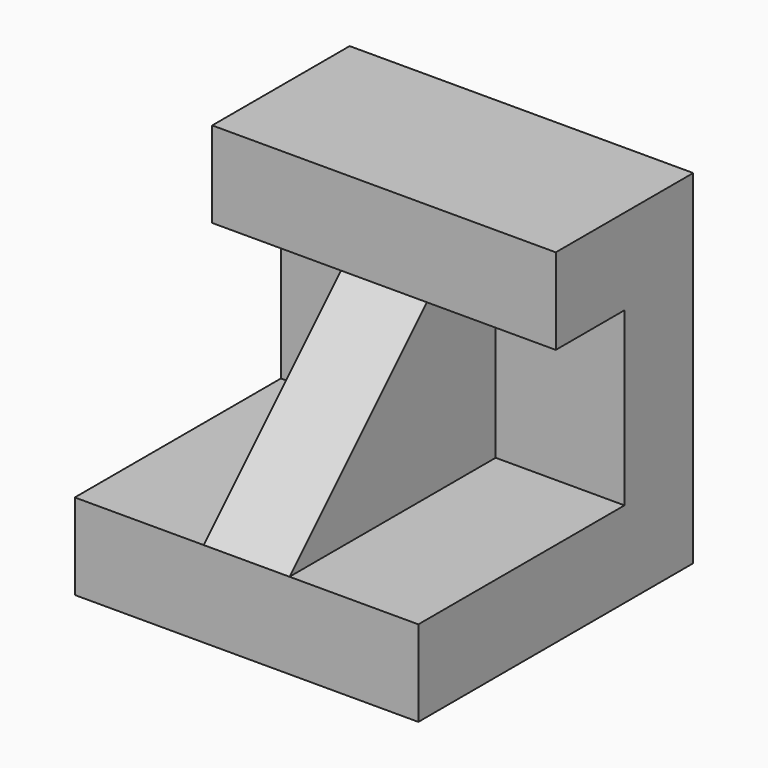
from build123d import *

# Parameters (mm, degrees)
F1_DEPTH = 101.6
F3_DEPTH = 25.4


with BuildPart() as f1:
    # F0 (on Right) → F1 (new body)
    with BuildSketch(Plane.YZ):
        Polygon((25.4, -25.4), (0, -25.4), (-50.8, -25.4), (-50.8, -50.8), (50.8, -50.8), (50.8, 50.8), (0, 50.8), (0, 25.4), (25.4, 25.4), align=None)
    extrude(amount=F1_DEPTH)


with BuildPart() as f3:
    # F2 (on face) → F3 (new body)
    with BuildSketch(Plane(origin=(0, 0, 0), x_dir=(0, -1, 0), z_dir=(-1, 0, 0))):
        Polygon((0, 25.4), (-25.4, 25.4), (-25.4, -25.4), (50.8, -25.4), align=None)
    extrude(amount=-F3_DEPTH)


with BuildPart() as f3_1:
    # F4: moved
    add(f3.part.moved(Location((38.1, 0, 0))))


solid = Compound([f1.part, f3_1.part])
